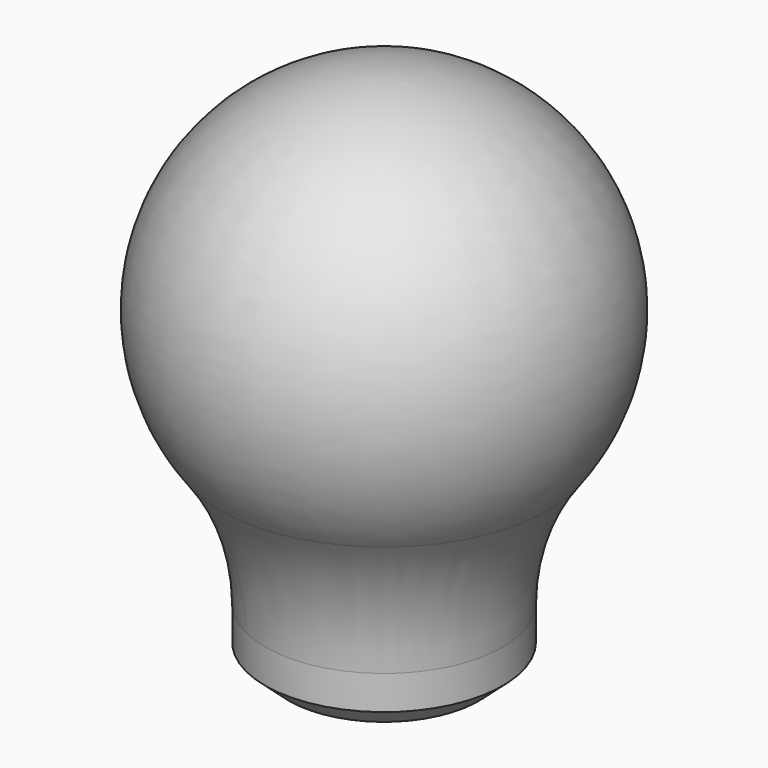
from build123d import *


with BuildPart() as f1:
    # F0 (on Front) → F1 (revolve)
    with BuildSketch(Plane.XZ):
        with BuildLine():
            Line((-47.555165, 8.380711), (-38.1, 0))
            Line((-38.1, 0), (0, 0))
            Line((0, 0), (0, 208.058182))
            ThreePointArc((0, 208.058182), (-73.742312, 162.377555), (-65.684371, 76.007896))
            ThreePointArc((-65.684371, 76.007896), (-52.208386, 50.480862), (-47.555165, 21.992632))
            Line((-47.555165, 21.992632), (-47.555165, 8.380711))
        make_face()
    revolve(axis=Axis((0, 0, 104.029091), (0, 0, 1)))


solid = f1.part
